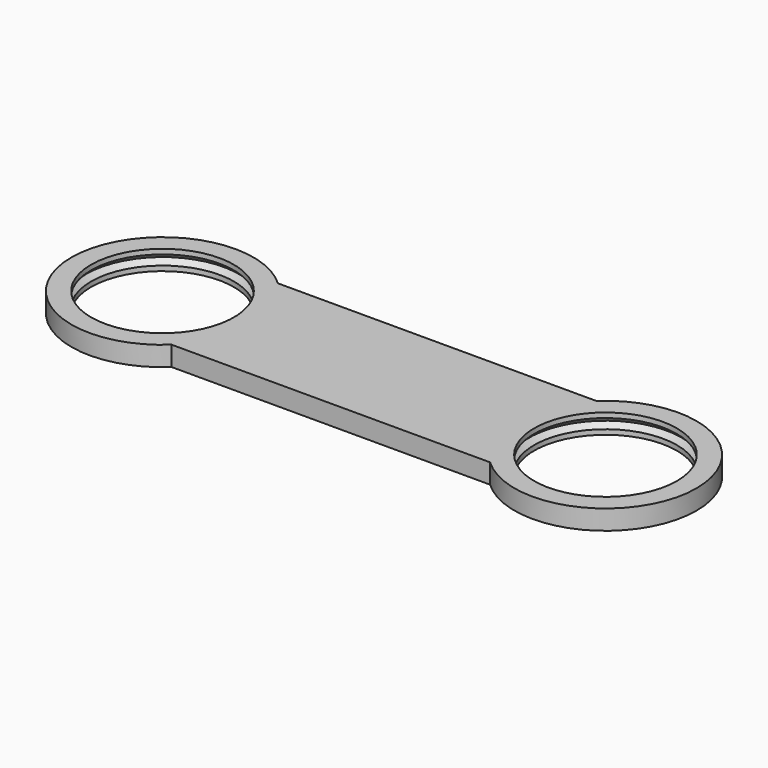
from build123d import *

# Parameters (mm, degrees)
F1_DEPTH = 2.032


with BuildPart() as f1:
    # F0 (on Top) → F1 (new body)
    with BuildSketch(Plane.XY):
        with BuildLine():
            ThreePointArc((-18.497407, 6.858), (-15.73527, 3.911855), (-14.732, 0))
            ThreePointArc((-14.732, 0), (-15.73527, -3.911855), (-18.497407, -6.858))
            Line((-18.497407, -6.858), (18.497407, -6.858))
            ThreePointArc((18.497407, -6.858), (14.732, 0), (18.497407, 6.858))
            Line((18.497407, 6.858), (-18.497407, 6.858))
        make_face()
    extrude(amount=F1_DEPTH)

    # F2 (on Front) → F3 (revolve)
    with BuildSketch(Plane.XZ):
        Polygon((-32.258, 2.032), (-32.258, 0), (-30.226, 0), (-30.226, 0.508), (-30.734, 1.016), (-30.226, 1.524), (-30.226, 2.032), align=None)
    revolve(axis=Axis((-22.86, 0, 0.9144), (0, 0, 1)))

    # F4: F1 across plane


with BuildPart() as f1_1:
    add(f1.part)
    add(f1.part.mirror(Plane.YZ))


solid = f1_1.part
